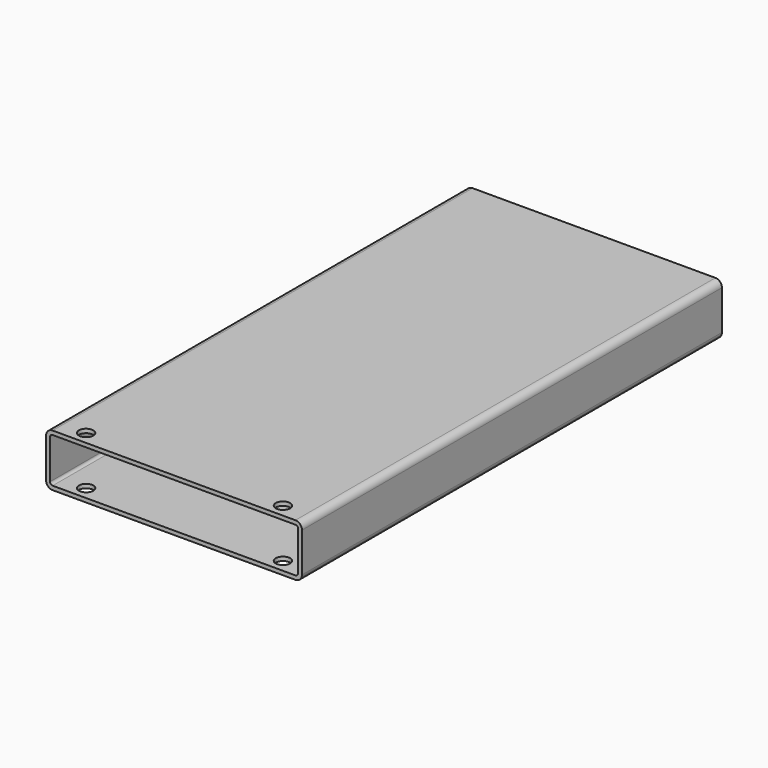
from build123d import *

# Parameters (mm, degrees)
F1_DEPTH = 400
F3_D     = 11


with BuildPart() as f1:
    # F0 (on Front) → F1 (new body)
    with BuildSketch(Plane.XZ):
        with BuildLine():
            ThreePointArc((-97.5, 5), (-96.0355339059, 1.4644660941), (-92.5, 0))
            Line((-92.5, 0), (92.5, 0))
            ThreePointArc((92.5, 0), (96.0355339059, 1.4644660941), (97.5, 5))
            Line((97.5, 5), (97.5, 35))
            ThreePointArc((97.5, 35), (96.0355339059, 38.5355339059), (92.5, 40))
            Line((92.5, 40), (-92.5, 40))
            ThreePointArc((-92.5, 40), (-96.0355339059, 38.5355339059), (-97.5, 35))
            Line((-97.5, 35), (-97.5, 5))
        make_face()
        with BuildLine():
            ThreePointArc((-94.5, 35), (-93.9142135624, 36.4142135624), (-92.5, 37))
            Line((-92.5, 37), (92.5, 37))
            ThreePointArc((92.5, 37), (93.9142135624, 36.4142135624), (94.5, 35))
            Line((94.5, 35), (94.5, 5))
            ThreePointArc((94.5, 5), (93.9142135624, 3.5857864376), (92.5, 3))
            Line((92.5, 3), (-92.5, 3))
            ThreePointArc((-92.5, 3), (-93.9142135624, 3.5857864376), (-94.5, 5))
            Line((-94.5, 5), (-94.5, 35))
        make_face(mode=Mode.SUBTRACT)
    extrude(amount=-F1_DEPTH)

    # F3 (through all)
    with Locations(Plane.XY.offset(40)):
        with Locations((-75, 10), (75, 10)):
            Hole(F3_D / 2)


solid = f1.part
